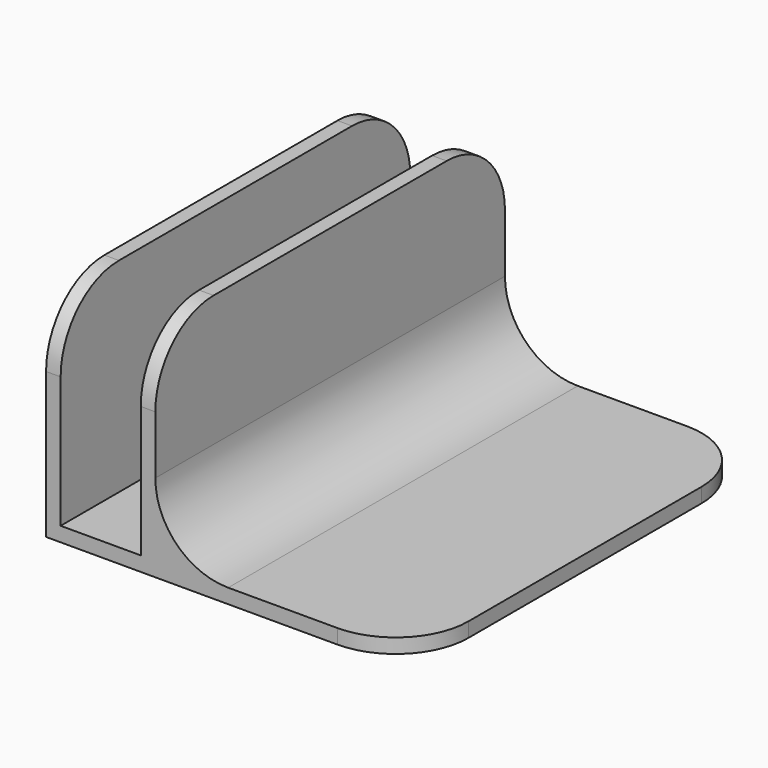
from build123d import *

# Parameters (mm, degrees)
F0_W     = 2
F0_H     = 2
F0_W_2   = 11
F0_H_2   = 28
F0_W_3   = 35
F1_DEPTH = 60
F2_R     = 10


with BuildPart() as f1:
    # F0 (on Front) → F1 (new body)
    with BuildSketch(Plane.XZ):
        with Locations((1, 1)):
            Rectangle(F0_W, F0_H)
        with Locations((7.5, 1)):
            Rectangle(F0_W_2, F0_H)
        with Locations((1, 16)):
            Rectangle(F0_W, F0_H_2)
        with Locations((14, 1)):
            Rectangle(F0_W, F0_H)
        with Locations((32.5, 1)):
            Rectangle(F0_W_3, F0_H)
        with Locations((14, 16)):
            Rectangle(F0_W, F0_H_2)
    extrude(amount=F1_DEPTH)

    # F2
    f2_edges = [f1.edges().sort_by_distance(p)[0] for p in [
        (14, -60, 30),
        (1, -60, 30),
        (14, 0, 30),
        (1, 0, 30),
        (15, -30, 2),
        (50, 0, 1),
        (50, -60, 1),
    ]]
    fillet(f2_edges, radius=F2_R)


solid = f1.part
